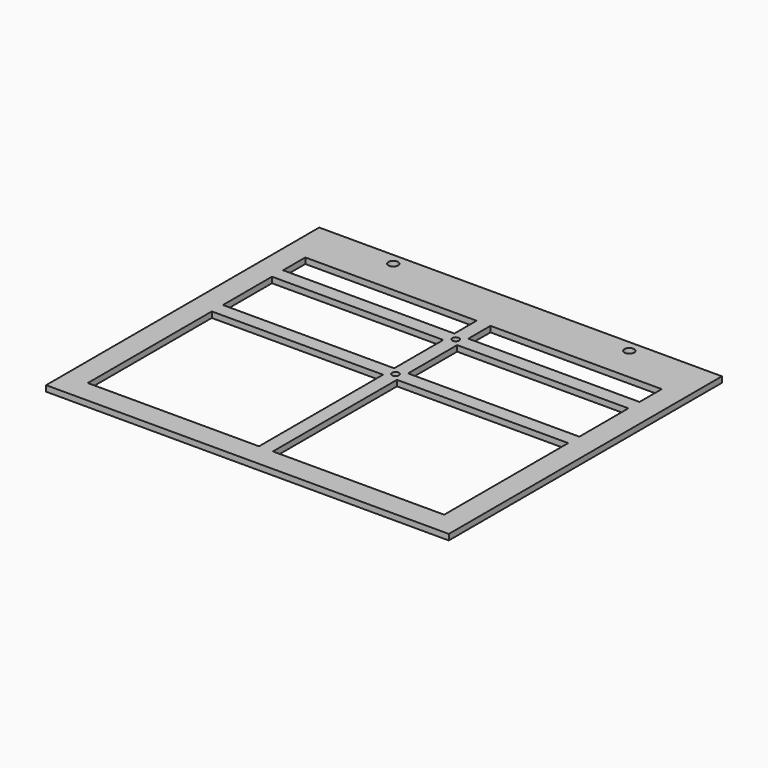
from build123d import *

# Parameters (mm, degrees)
F0_W     = 174
F0_H     = 147.5
F0_R     = 2.1
F0_W_2   = 6
F0_H_2   = 6
F0_R_2   = 1.5
F0_H_3   = 26.5
F0_W_3   = 74
F1_DEPTH = 2.5


with BuildPart() as f1:
    # F0 (on Top) → F1 (new body)
    with BuildSketch(Plane.XY):
        with Locations((0, -6.25)):
            Rectangle(F0_W, F0_H)
        Polygon((77, -3), (77, -70), (3, -70), (3, -3), (-3, -3), (-3, -70), (-77, -70), (-77, -3), (-77, 3), (-77, 29.5), (-77, 35.5), (-77, 47.5), (-3, 47.5), (-3, 35.5), (3, 35.5), (3, 47.5), (77, 47.5), (77, 35.5), (77, 29.5), (77, 3), align=None, mode=Mode.SUBTRACT)
        with Locations((-51, 62.5)):
            Circle(F0_R, mode=Mode.SUBTRACT)
        with Locations((51, 62.5)):
            Circle(F0_R, mode=Mode.SUBTRACT)
        with Locations((0, 32.5)):
            Rectangle(F0_W_2, F0_H_2)
        with Locations((0, 32.5)):
            Circle(F0_R_2, mode=Mode.SUBTRACT)
        with Locations((0, 16.25)):
            Rectangle(F0_W_2, F0_H_3)
        Rectangle(F0_W_2, F0_H_2)
        Circle(F0_R_2, mode=Mode.SUBTRACT)
        with Locations((40, 0)):
            Rectangle(F0_W_3, F0_H_2)
        with Locations((-40, 0)):
            Rectangle(F0_W_3, F0_H_2)
        with Locations((-40, 32.5)):
            Rectangle(F0_W_3, F0_H_2)
        with Locations((40, 32.5)):
            Rectangle(F0_W_3, F0_H_2)
    extrude(amount=F1_DEPTH)


solid = f1.part
